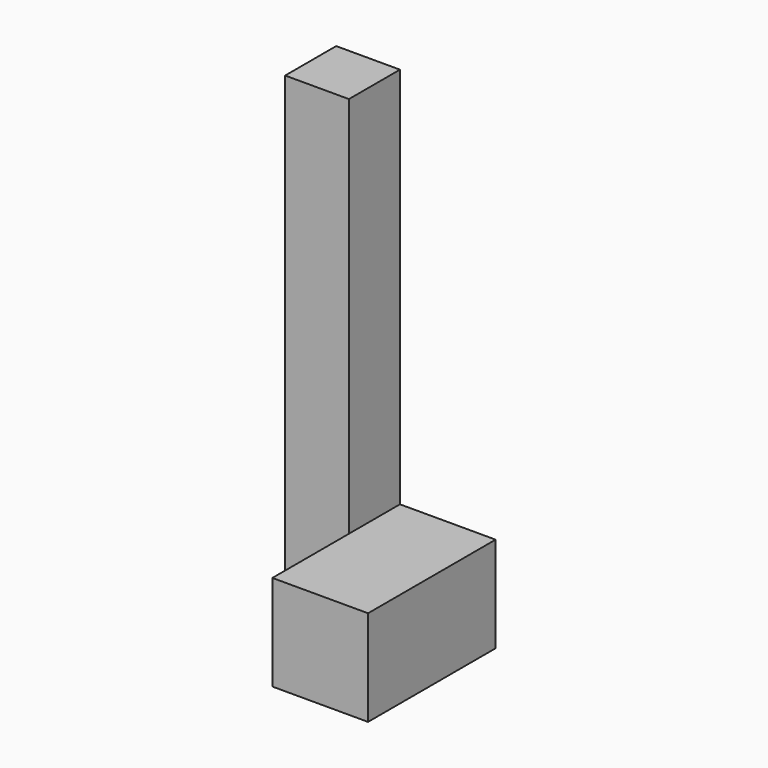
from build123d import *

# Parameters (mm, degrees)
F1_DEPTH = 10
F0_W     = 15
F0_H     = 15
F2_DEPTH = 25


with BuildPart() as f1:
    # F0 (on Front) → F1 (new body)
    with BuildSketch(Plane.XZ):
        Polygon((-48.808126, 51.012476), (-58.808126, 51.012476), (-58.808126, -23.987524), (-48.808126, -23.987524), (-48.808126, -8.987524), align=None)
    extrude(amount=F1_DEPTH)

    # F0 (on Front) → F2 (join)
    with BuildSketch(Plane.XZ):
        with Locations((-41.308126, -16.487524)):
            Rectangle(F0_W, F0_H)
    extrude(amount=F2_DEPTH)


solid = f1.part
